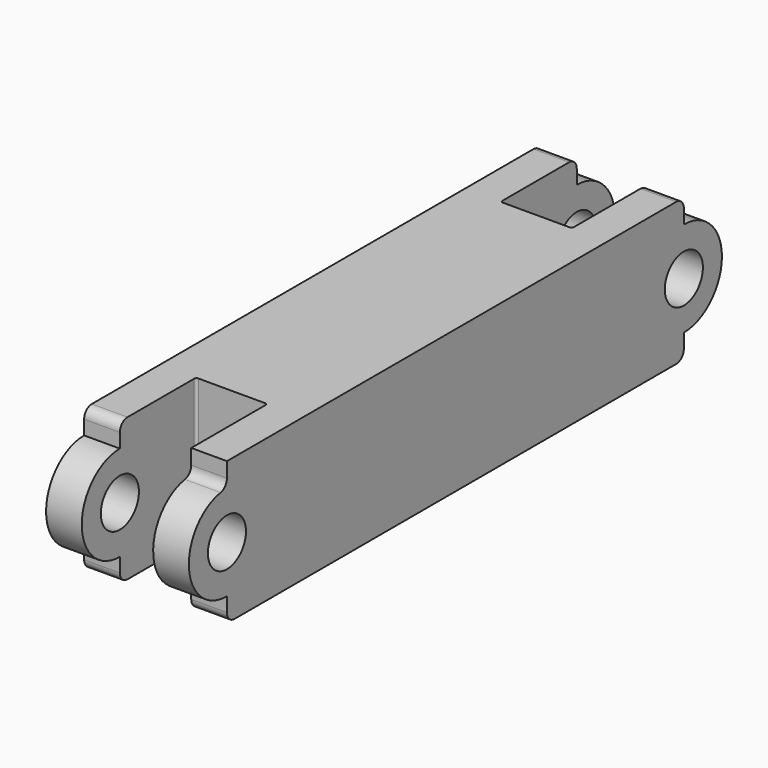
from build123d import *

# Parameters (mm, degrees)
F0_R     = 12.7
F1_DEPTH = 38.1
F2_W     = 38.1
F2_H     = 25.4
F2_H_2   = 50.8
F3_DEPTH = 88.9
F4_R     = 5.08
F5_R     = 1.27


with BuildPart() as f1:
    # F0 (on Right) → F1 (new body, symmetric)
    with BuildSketch(Plane.YZ):
        with BuildLine():
            Line((152.4, 25.4), (152.4, 38.1))
            Line((152.4, 38.1), (-152.4, 38.1))
            Line((-152.4, 38.1), (-152.4, 25.4))
            ThreePointArc((-152.4, 25.4), (-177.8, 0), (-152.4, -25.4))
            Line((-152.4, -25.4), (-152.4, -38.1))
            Line((-152.4, -38.1), (152.4, -38.1))
            Line((152.4, -38.1), (152.4, -25.4))
            ThreePointArc((152.4, -25.4), (177.8, 0), (152.4, 25.4))
        make_face()
        with Locations((-152.4, 0)):
            Circle(F0_R, mode=Mode.SUBTRACT)
        with Locations((152.4, 0)):
            Circle(F0_R, mode=Mode.SUBTRACT)
    extrude(amount=F1_DEPTH, both=True)

    # F2 (on face) → F3 (cut)
    with BuildSketch(Plane.XY.offset(38.1)):
        with Locations((0, 165.1)):
            Rectangle(F2_W, F2_H)
        with Locations((0, 127)):
            Rectangle(F2_W, F2_H_2)
        with Locations((0, -127)):
            Rectangle(F2_W, F2_H_2)
        with Locations((0, -165.1)):
            Rectangle(F2_W, F2_H)
    extrude(amount=-F3_DEPTH, mode=Mode.SUBTRACT)

    # F4
    f4_edges = [f1.edges().sort_by_distance(p)[0] for p in [
        (28.575, 152.4, -38.1),
        (-28.575, 152.4, -38.1),
        (-28.575, 152.4, 38.1),
        (28.575, 152.4, 38.1),
        (28.575, -152.4, -38.1),
        (-28.575, -152.4, -38.1),
        (28.575, -152.4, 25.4),
        (-28.575, -152.4, 38.1),
    ]]
    fillet(f4_edges, radius=F4_R)

    # F5
    f5_edges = [f1.edges().sort_by_distance(p)[0] for p in [
        (19.05, 101.6, 0),
        (-19.05, 101.6, 0),
        (19.05, -101.6, 0),
        (-19.05, -101.6, 0),
    ]]
    fillet(f5_edges, radius=F5_R)


solid = f1.part
